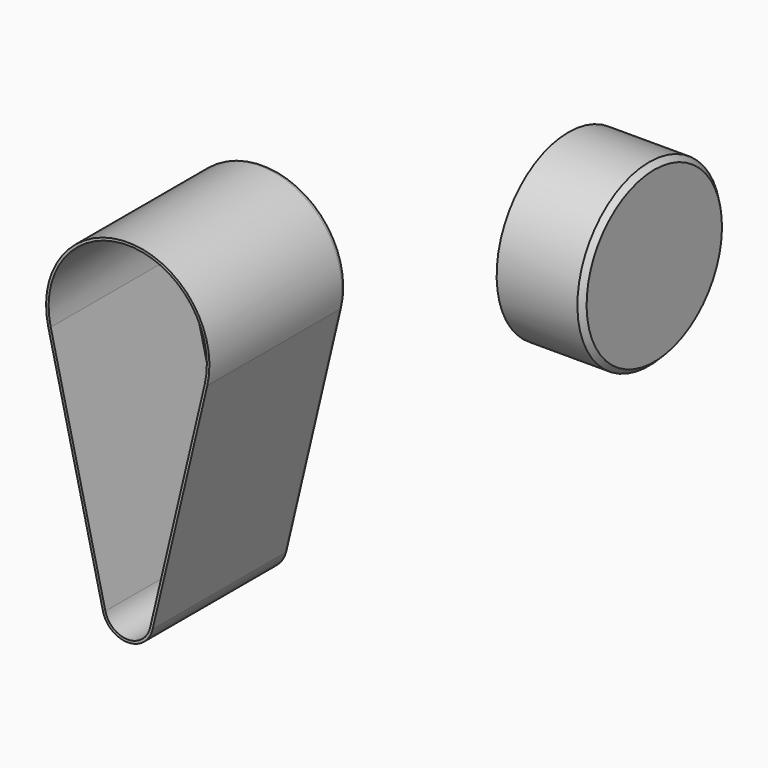
from build123d import *

# Parameters (mm, degrees)
F2_DEPTH = 167
F0_W     = 84.1044187546
F0_H     = 87.85161376
F4_T     = -2.5
F5_R     = 5
F6_SIZE  = 5


with BuildPart() as f2:
    # F1 (on Front) → F2 (new body)
    with BuildSketch(Plane.XZ):
        with BuildLine():
            Line((-315.6653200287, -405.7291666667), (-262.1290240918, -178.3333333333))
            ThreePointArc((-262.1290240918, -178.3333333333), (-340, -80), (-417.8709759082, -178.3333333333))
            Line((-417.8709759082, -178.3333333333), (-364.3346799713, -405.7291666667))
            ThreePointArc((-364.3346799713, -405.7291666667), (-340, -425), (-315.6653200287, -405.7291666667))
        make_face()
    extrude(amount=F2_DEPTH)

    # F4
    f4_openings = [f2.faces().sort_by_distance(p)[0] for p in [
        (-340, -167, -226.923814),
    ]]
    offset(amount=F4_T, openings=f4_openings)

    # F5
    f5_edges = [f2.edges().sort_by_distance(p)[0] for p in [
        (-288.897172, 0, -292.03125),
    ]]
    fillet(f5_edges, radius=F5_R)


with BuildPart() as f3:
    # F0 (on Front) → F3 (revolve)
    with BuildSketch(Plane.XZ):
        Rectangle(F0_W, F0_H)
    revolve(axis=Axis((0, 0, -43.92580688), (1, 0, 0)))

    # F6
    f6_edges = [f3.edges().sort_by_distance(p)[0] for p in [
        (42.052209, 0, -131.777421),
    ]]
    chamfer(f6_edges, length=F6_SIZE)


solid = Compound([f2.part, f3.part])
